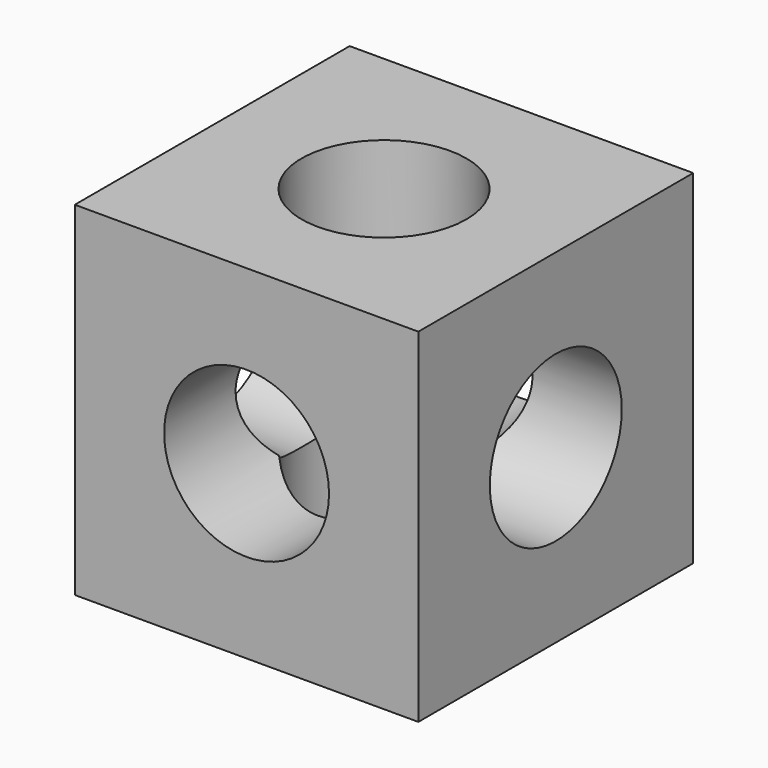
from build123d import *

# Parameters (mm, degrees)
F0_W          = 50
F0_H          = 50
F1_DEPTH      = 25
F1_DEPTH_BACK = 25
F2_R          = 12
F3_DEPTH      = 50
F4_R          = 12
F5_DEPTH      = 50
F6_R          = 12
F7_DEPTH      = 50


with BuildPart() as f1:
    # F0 (on Front) → F1 (new body, two sides)
    with BuildSketch(Plane.XZ) as f1_sk:
        Rectangle(F0_W, F0_H)
    extrude(amount=F1_DEPTH)
    extrude(f1_sk.sketch, amount=-F1_DEPTH_BACK)

    # F2 (on face) → F3 (cut)
    with BuildSketch(Plane.XZ.offset(25)):
        Circle(F2_R)
    extrude(amount=-F3_DEPTH, mode=Mode.SUBTRACT)

    # F4 (on face) → F5 (cut)
    with BuildSketch(Plane.XY.offset(25)):
        Circle(F4_R)
    extrude(amount=-F5_DEPTH, mode=Mode.SUBTRACT)

    # F6 (on face) → F7 (cut)
    with BuildSketch(Plane.YZ.offset(25)):
        Circle(F6_R)
    extrude(amount=-F7_DEPTH, mode=Mode.SUBTRACT)


solid = f1.part
